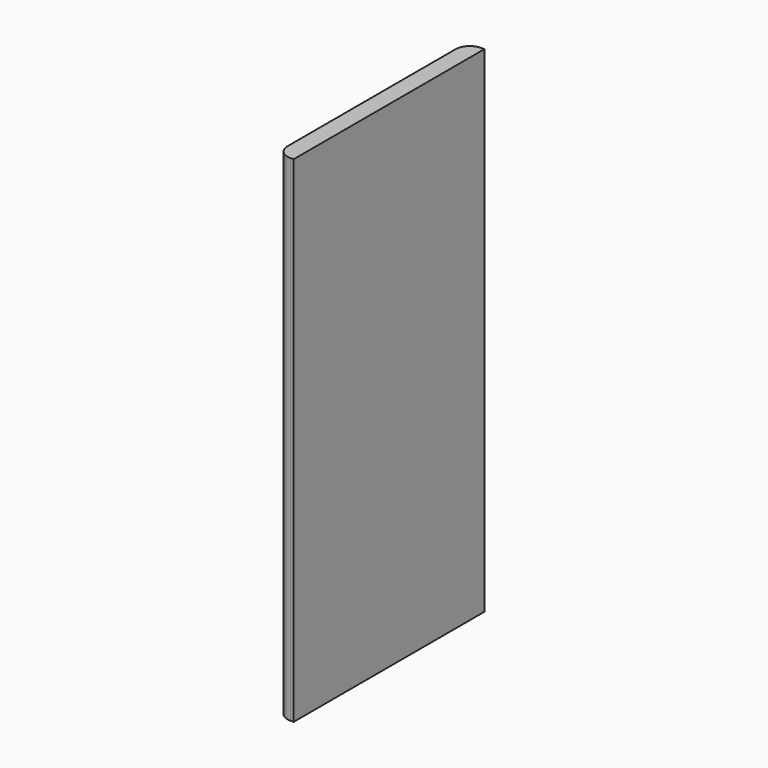
from build123d import *

# Parameters (mm, degrees)
BOX_W       = 22
BOX_H       = 300
BOX_DEPTH   = 623
FILLET_R    = 18
FILLET001_R = 18


with BuildPart() as part:
    # Box → Box (new body)
    with BuildSketch(Plane.XY):
        with Locations((11, 150)):
            Rectangle(BOX_W, BOX_H)
    extrude(amount=BOX_DEPTH)

    # Fillet
    fillet_edges = [part.edges().sort_by_distance(p)[0] for p in [
        (0, 0, 311.5),
    ]]
    fillet(fillet_edges, radius=FILLET_R)

    # Fillet001
    fillet001_edges = [part.edges().sort_by_distance(p)[0] for p in [
        (0, 300, 311.5),
    ]]
    fillet(fillet001_edges, radius=FILLET001_R)


solid = part.part
